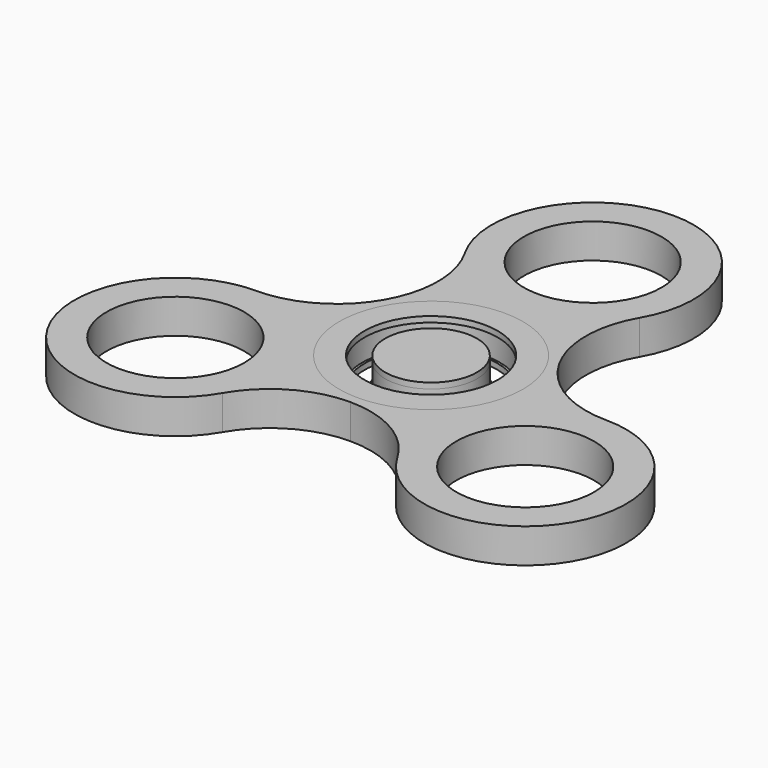
from build123d import *

# Parameters (mm, degrees)
F0_R     = 12.7
F0_R_2   = 9.2075
F1_DEPTH = 0.79375
F0_R_3   = 6.6675
F2_R     = 6.35
F3_DEPTH = 3.175
F2_R_2   = 12.7
F2_R_3   = 9.525
F4_R     = 6.35
F5_DEPTH = 0.79375
F4_R_2   = 12.7
F4_R_3   = 9.2075
F6_R     = 9.525
F6_R_2   = 12.7
F7_DEPTH = 4.7625


with BuildPart() as f1:
    # F0 (on Top) → F1 (new body)
    with BuildSketch(Plane.XY):
        Circle(F0_R)
        Circle(F0_R_2, mode=Mode.SUBTRACT)
    extrude(amount=F1_DEPTH)


with BuildPart() as f1b:
    # F0 (on Top) → F1, piece 2 (new body)
    with BuildSketch(Plane.XY):
        Circle(F0_R_3)
    extrude(amount=F1_DEPTH)


with BuildPart() as f3:
    # F2 (on face) → F3 (new body)
    with BuildSketch(Plane.XY.offset(0.79375)):
        Circle(F2_R)
    extrude(amount=F3_DEPTH)


with BuildPart() as f3b:
    # F2 (on face) → F3, piece 2 (new body)
    with BuildSketch(Plane.XY.offset(0.79375)):
        Circle(F2_R_2)
        Circle(F2_R_3, mode=Mode.SUBTRACT)
    extrude(amount=F3_DEPTH)


with BuildPart() as f5:
    # F4 (on face) → F5 (new body)
    with BuildSketch(Plane.XY.offset(3.96875)):
        Circle(F4_R)
    extrude(amount=F5_DEPTH)


with BuildPart() as f5b:
    # F4 (on face) → F5, piece 2 (new body)
    with BuildSketch(Plane.XY.offset(3.96875)):
        Circle(F4_R_2)
        Circle(F4_R_3, mode=Mode.SUBTRACT)
    extrude(amount=F5_DEPTH)


with BuildPart() as f7:
    # F6 (on Top) → F7 (new body)
    with BuildSketch(Plane.XY):
        with BuildLine():
            ThreePointArc((-12.0983754113, 6.9849990986), (1.12e-08, 13.97), (12.0983754224, 6.9849990793))
            ThreePointArc((12.0983754224, 6.9849990793), (10.2267497817, 13.9699994684), (12.0983748909, 20.955))
            ThreePointArc((12.0983748909, 20.955), (0, 41.91), (-12.0983748909, 20.955))
            ThreePointArc((-12.0983748909, 20.955), (-10.2267497817, 13.9699994796), (-12.0983754113, 6.9849990986))
        make_face()
        with Locations((0, 27.94)):
            Circle(F6_R, mode=Mode.SUBTRACT)
        with BuildLine():
            ThreePointArc((-12.0983748909, -20.955), (-6.9849999981, -15.841625108), (4.5e-09, -13.97))
            ThreePointArc((4.5e-09, -13.97), (-12.0983746295, -6.9850004526), (-12.0983754113, 6.9849990986))
            ThreePointArc((-12.0983754113, 6.9849990986), (-17.2117502324, 1.8716248489), (-24.1967497817, 0))
            ThreePointArc((-24.1967497817, 0), (-36.2951246726, -20.955), (-12.0983748909, -20.955))
        make_face()
        with Locations((-24.1967497817, -13.97)):
            Circle(F6_R, mode=Mode.SUBTRACT)
        with BuildLine():
            ThreePointArc((12.0983754224, 6.9849990793), (13.4939839308, 3.6157015466), (13.97, 0))
            ThreePointArc((13.97, 0), (9.8782817348, -9.8782817316), (4.5e-09, -13.97))
            ThreePointArc((4.5e-09, -13.97), (6.9850000019, -15.8416251103), (12.0983748909, -20.955))
            ThreePointArc((12.0983748909, -20.955), (36.2951246726, -20.955), (24.1967497817, 0))
            ThreePointArc((24.1967497817, 0), (17.2117502421, 1.8716248433), (12.0983754224, 6.9849990793))
        make_face()
        with Locations((24.1967497817, -13.97)):
            Circle(F6_R, mode=Mode.SUBTRACT)
        with BuildLine():
            ThreePointArc((4.5e-09, -13.97), (9.8782817348, -9.8782817316), (13.97, 0))
            ThreePointArc((13.97, 0), (13.4939839308, 3.6157015466), (12.0983754224, 6.9849990793))
            ThreePointArc((12.0983754224, 6.9849990793), (1.12e-08, 13.97), (-12.0983754113, 6.9849990986))
            ThreePointArc((-12.0983754113, 6.9849990986), (-12.0983746295, -6.9850004526), (4.5e-09, -13.97))
        make_face()
        Circle(F6_R_2, mode=Mode.SUBTRACT)
    extrude(amount=F7_DEPTH)


solid = Compound([f1.part, f1b.part, f3.part, f3b.part, f5.part, f5b.part, f7.part])
